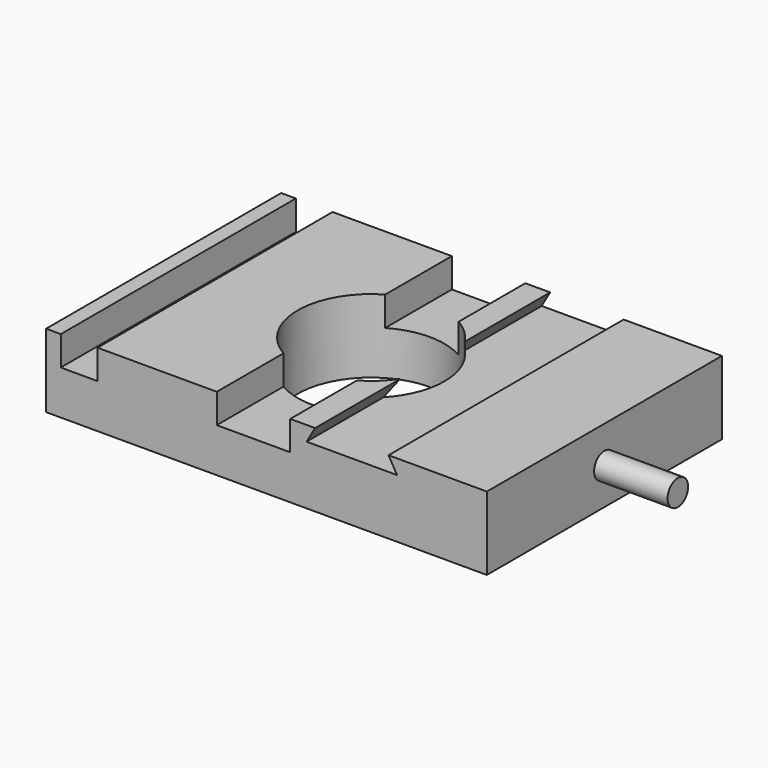
from build123d import *

# Parameters (mm, degrees)
F0_W     = 76.2
F0_H     = 50.8
F0_R     = 12.7
F1_DEPTH = 12.7
F2_W     = 6.35
F2_H     = 50.8
F3_DEPTH = 5.08
F5_DEPTH = 50.801
F6_R     = 2.2225
F7_DEPTH = 12.7


with BuildPart() as f1:
    # F0 (on Top) → F1 (new body)
    with BuildSketch(Plane.XY):
        with Locations((2.2386768513, 0)):
            Rectangle(F0_W, F0_H)
        Circle(F0_R, mode=Mode.SUBTRACT)
    extrude(amount=F1_DEPTH)

    # F2 (on face) → F3 (cut)
    with BuildSketch(Plane.XY.offset(12.7)):
        with Locations((-30.1463231487, 0)):
            Rectangle(F2_W, F2_H)
        with BuildLine():
            Line((-6.35, -10.9985226281), (-6.35, -25.4))
            Line((-6.35, -25.4), (6.35, -25.4))
            Line((6.35, -25.4), (6.35, -10.9985226281))
            ThreePointArc((6.35, -10.9985226281), (0, -12.7), (-6.35, -10.9985226281))
        make_face()
        with BuildLine():
            Line((6.35, 25.4), (-6.35, 25.4))
            Line((-6.35, 25.4), (-6.35, 10.9985226281))
            ThreePointArc((-6.35, 10.9985226281), (0, 12.7), (6.35, 10.9985226281))
            Line((6.35, 10.9985226281), (6.35, 25.4))
        make_face()
    extrude(amount=-F3_DEPTH, mode=Mode.SUBTRACT)

    # F4 (on face) → F5 (cut, through all)
    with BuildSketch(Plane.XZ.offset(25.4)):
        Polygon((23.3443384257, 12.7), (10.6443384257, 12.7), (9.1778687419, 10.16), (24.8108081094, 10.16), align=None)
    extrude(amount=-F5_DEPTH, mode=Mode.SUBTRACT)

    # F6 (on face) → F7 (join)
    with BuildSketch(Plane.YZ.offset(40.3386768513)):
        with Locations((0, 6.35)):
            Circle(F6_R)
    extrude(amount=F7_DEPTH)


solid = f1.part
